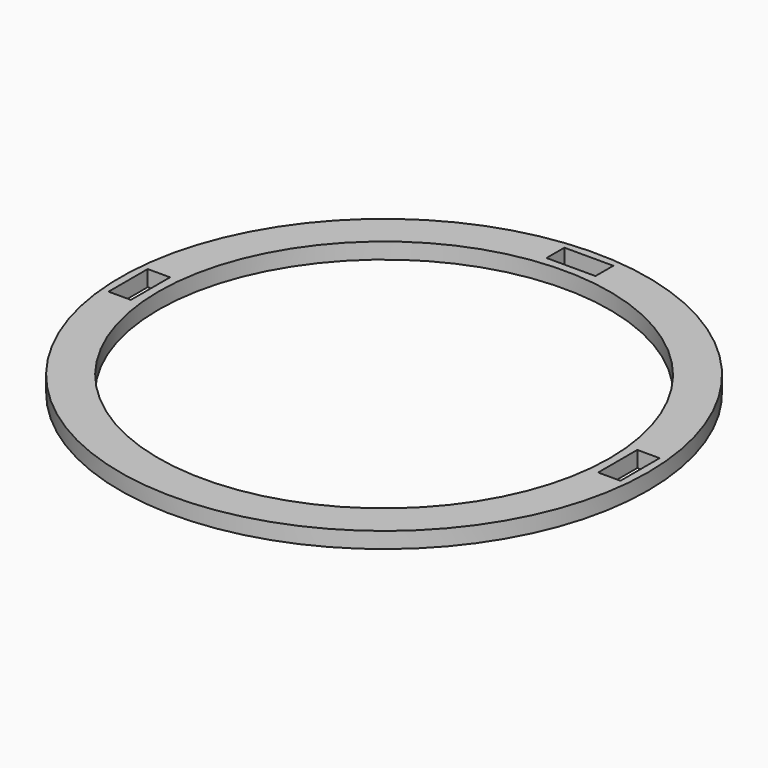
from build123d import *

# Parameters (mm, degrees)
F0_R     = 49.6
F0_W     = 4.2
F0_H     = 9.2
F0_R_2   = 42.4
F0_W_2   = 9.2
F0_H_2   = 4.2
F1_DEPTH = 3


with BuildPart() as f1:
    # F0 (on Top) → F1 (new body)
    with BuildSketch(Plane.XY):
        Circle(F0_R)
        with Locations((-46, 0)):
            Rectangle(F0_W, F0_H, mode=Mode.SUBTRACT)
        Circle(F0_R_2, mode=Mode.SUBTRACT)
        with Locations((46, 0)):
            Rectangle(F0_W, F0_H, mode=Mode.SUBTRACT)
        with Locations((0, 46)):
            Rectangle(F0_W_2, F0_H_2, mode=Mode.SUBTRACT)
    extrude(amount=F1_DEPTH)


solid = f1.part
